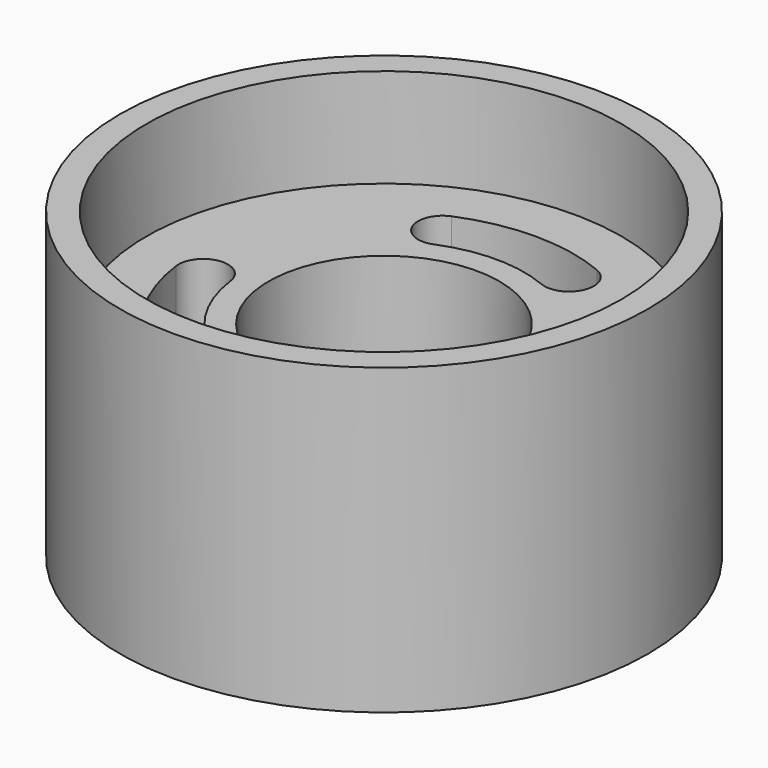
from build123d import *

# Parameters (mm, degrees)
F0_R      = 80
F0_R_2    = 72
F1_DEPTH  = 92
F0_R_3    = 35
F2_DEPTH  = 92
F3_DEPTH  = 30
F4_R      = 72
F4_R_2    = 35
F5_DEPTH  = 30
F6_R      = 72
F6_R_2    = 35
F7_DEPTH  = 25
F8_DEPTH  = 30
F9_R      = 24
F9_R_2    = 20
F10_DEPTH = 25


with BuildPart() as f1:
    # F0 (on Top) → F1 (new body)
    with BuildSketch(Plane.XY):
        Circle(F0_R)
        Circle(F0_R_2, mode=Mode.SUBTRACT)
    extrude(amount=F1_DEPTH)

    # F0 (on Top) → F2 (join)
    with BuildSketch(Plane.XY):
        Circle(F0_R)
        Circle(F0_R_2, mode=Mode.SUBTRACT)
        Circle(F0_R_2)
        with BuildLine():
            ThreePointArc((-25.872361, -33.717517), (-23.711526, -36.350502), (-22.938071, -39.667667))
            ThreePointArc((-22.938071, -39.667667), (-27.120906, -46.394213), (-35.003782, -45.617817))
            ThreePointArc((-35.003782, -45.617817), (-49.796461, -28.75), (-57.00808, -7.505256))
            ThreePointArc((-57.00808, -7.505256), (-50.55119, 0.909527), (-42.136407, -5.547363))
            ThreePointArc((-42.136407, -5.547363), (-36.80608, -21.25), (-25.872361, -33.717517))
        make_face(mode=Mode.SUBTRACT)
        with BuildLine():
            ThreePointArc((42.136407, -5.547363), (50.062767, 0.957632), (57.072243, -6.52631))
            ThreePointArc((57.072243, -6.52631), (57.056185, -7.016833), (57.00808, -7.505256))
            ThreePointArc((57.00808, -7.505256), (49.796461, -28.75), (35.003782, -45.617817))
            ThreePointArc((35.003782, -45.617817), (24.487921, -44.233378), (25.872361, -33.717517))
            ThreePointArc((25.872361, -33.717517), (36.80608, -21.25), (42.136407, -5.547363))
        make_face(mode=Mode.SUBTRACT)
        with BuildLine():
            ThreePointArc((-16.264046, 39.26488), (-26.063268, 43.323851), (-22.004297, 53.123073))
            ThreePointArc((-22.004297, 53.123073), (0, 57.5), (22.004297, 53.123073))
            ThreePointArc((22.004297, 53.123073), (26.063268, 43.323851), (16.264046, 39.26488))
            ThreePointArc((16.264046, 39.26488), (0, 42.5), (-16.264046, 39.26488))
        make_face(mode=Mode.SUBTRACT)
        Circle(F0_R_3, mode=Mode.SUBTRACT)
    extrude(amount=F2_DEPTH)

    # F0 (on Top) → F3 (cut)
    with BuildSketch(Plane.XY):
        Circle(F0_R_2)
        with BuildLine():
            ThreePointArc((-25.872361, -33.717517), (-23.711526, -36.350502), (-22.938071, -39.667667))
            ThreePointArc((-22.938071, -39.667667), (-27.120906, -46.394213), (-35.003782, -45.617817))
            ThreePointArc((-35.003782, -45.617817), (-49.796461, -28.75), (-57.00808, -7.505256))
            ThreePointArc((-57.00808, -7.505256), (-50.55119, 0.909527), (-42.136407, -5.547363))
            ThreePointArc((-42.136407, -5.547363), (-36.80608, -21.25), (-25.872361, -33.717517))
        make_face(mode=Mode.SUBTRACT)
        with BuildLine():
            ThreePointArc((42.136407, -5.547363), (50.062767, 0.957632), (57.072243, -6.52631))
            ThreePointArc((57.072243, -6.52631), (57.056185, -7.016833), (57.00808, -7.505256))
            ThreePointArc((57.00808, -7.505256), (49.796461, -28.75), (35.003782, -45.617817))
            ThreePointArc((35.003782, -45.617817), (24.487921, -44.233378), (25.872361, -33.717517))
            ThreePointArc((25.872361, -33.717517), (36.80608, -21.25), (42.136407, -5.547363))
        make_face(mode=Mode.SUBTRACT)
        with BuildLine():
            ThreePointArc((-16.264046, 39.26488), (-26.063268, 43.323851), (-22.004297, 53.123073))
            ThreePointArc((-22.004297, 53.123073), (0, 57.5), (22.004297, 53.123073))
            ThreePointArc((22.004297, 53.123073), (26.063268, 43.323851), (16.264046, 39.26488))
            ThreePointArc((16.264046, 39.26488), (0, 42.5), (-16.264046, 39.26488))
        make_face(mode=Mode.SUBTRACT)
        Circle(F0_R_3, mode=Mode.SUBTRACT)
    extrude(amount=F3_DEPTH, mode=Mode.SUBTRACT)

    # F4 (on face) → F5 (cut)
    with BuildSketch(Plane.XY):
        Circle(F4_R)
        with BuildLine():
            ThreePointArc((-57.00808, -7.505256), (-50.55119, 0.909527), (-42.136407, -5.547363))
            ThreePointArc((-42.136407, -5.547363), (-36.80608, -21.25), (-25.872361, -33.717517))
            ThreePointArc((-25.872361, -33.717517), (-23.711526, -36.350502), (-22.938071, -39.667667))
            ThreePointArc((-22.938071, -39.667667), (-27.120906, -46.394213), (-35.003782, -45.617817))
            ThreePointArc((-35.003782, -45.617817), (-49.796461, -28.75), (-57.00808, -7.505256))
        make_face(mode=Mode.SUBTRACT)
        with BuildLine():
            ThreePointArc((35.003782, -45.617817), (24.487921, -44.233378), (25.872361, -33.717517))
            ThreePointArc((25.872361, -33.717517), (36.80608, -21.25), (42.136407, -5.547363))
            ThreePointArc((42.136407, -5.547363), (50.062767, 0.957632), (57.072243, -6.52631))
            ThreePointArc((57.072243, -6.52631), (57.056185, -7.016833), (57.00808, -7.505256))
            ThreePointArc((57.00808, -7.505256), (49.796461, -28.75), (35.003782, -45.617817))
        make_face(mode=Mode.SUBTRACT)
        with BuildLine():
            ThreePointArc((22.004297, 53.123073), (26.063268, 43.323851), (16.264046, 39.26488))
            ThreePointArc((16.264046, 39.26488), (0, 42.5), (-16.264046, 39.26488))
            ThreePointArc((-16.264046, 39.26488), (-26.063268, 43.323851), (-22.004297, 53.123073))
            ThreePointArc((-22.004297, 53.123073), (0, 57.5), (22.004297, 53.123073))
        make_face(mode=Mode.SUBTRACT)
        Circle(F4_R_2, mode=Mode.SUBTRACT)
    extrude(amount=F5_DEPTH, mode=Mode.SUBTRACT)

    # F6 (on face) → F7 (cut)
    with BuildSketch(Plane.XY.offset(92)):
        Circle(F6_R)
        with BuildLine():
            ThreePointArc((-57.00808, -7.505256), (-50.55119, 0.909527), (-42.136407, -5.547363))
            ThreePointArc((-42.136407, -5.547363), (-36.80608, -21.25), (-25.872361, -33.717517))
            ThreePointArc((-25.872361, -33.717517), (-23.711526, -36.350502), (-22.938071, -39.667667))
            ThreePointArc((-22.938071, -39.667667), (-27.120906, -46.394213), (-35.003782, -45.617817))
            ThreePointArc((-35.003782, -45.617817), (-49.796461, -28.75), (-57.00808, -7.505256))
        make_face(mode=Mode.SUBTRACT)
        with BuildLine():
            ThreePointArc((35.003782, -45.617817), (24.487921, -44.233378), (25.872361, -33.717517))
            ThreePointArc((25.872361, -33.717517), (36.80608, -21.25), (42.136407, -5.547363))
            ThreePointArc((42.136407, -5.547363), (50.062767, 0.957632), (57.072243, -6.52631))
            ThreePointArc((57.072243, -6.52631), (57.056185, -7.016833), (57.00808, -7.505256))
            ThreePointArc((57.00808, -7.505256), (49.796461, -28.75), (35.003782, -45.617817))
        make_face(mode=Mode.SUBTRACT)
        with BuildLine():
            ThreePointArc((-22.004297, 53.123073), (0, 57.5), (22.004297, 53.123073))
            ThreePointArc((22.004297, 53.123073), (26.063268, 43.323851), (16.264046, 39.26488))
            ThreePointArc((16.264046, 39.26488), (0, 42.5), (-16.264046, 39.26488))
            ThreePointArc((-16.264046, 39.26488), (-26.063268, 43.323851), (-22.004297, 53.123073))
        make_face(mode=Mode.SUBTRACT)
        Circle(F6_R_2, mode=Mode.SUBTRACT)
    extrude(amount=-F7_DEPTH, mode=Mode.SUBTRACT)

    # F6 (on face) → F8 (cut)
    with BuildSketch(Plane.XY.offset(92)):
        Circle(F6_R)
        with BuildLine():
            ThreePointArc((-57.00808, -7.505256), (-50.55119, 0.909527), (-42.136407, -5.547363))
            ThreePointArc((-42.136407, -5.547363), (-36.80608, -21.25), (-25.872361, -33.717517))
            ThreePointArc((-25.872361, -33.717517), (-23.711526, -36.350502), (-22.938071, -39.667667))
            ThreePointArc((-22.938071, -39.667667), (-27.120906, -46.394213), (-35.003782, -45.617817))
            ThreePointArc((-35.003782, -45.617817), (-49.796461, -28.75), (-57.00808, -7.505256))
        make_face(mode=Mode.SUBTRACT)
        with BuildLine():
            ThreePointArc((35.003782, -45.617817), (24.487921, -44.233378), (25.872361, -33.717517))
            ThreePointArc((25.872361, -33.717517), (36.80608, -21.25), (42.136407, -5.547363))
            ThreePointArc((42.136407, -5.547363), (50.062767, 0.957632), (57.072243, -6.52631))
            ThreePointArc((57.072243, -6.52631), (57.056185, -7.016833), (57.00808, -7.505256))
            ThreePointArc((57.00808, -7.505256), (49.796461, -28.75), (35.003782, -45.617817))
        make_face(mode=Mode.SUBTRACT)
        with BuildLine():
            ThreePointArc((-22.004297, 53.123073), (0, 57.5), (22.004297, 53.123073))
            ThreePointArc((22.004297, 53.123073), (26.063268, 43.323851), (16.264046, 39.26488))
            ThreePointArc((16.264046, 39.26488), (0, 42.5), (-16.264046, 39.26488))
            ThreePointArc((-16.264046, 39.26488), (-26.063268, 43.323851), (-22.004297, 53.123073))
        make_face(mode=Mode.SUBTRACT)
        Circle(F6_R_2, mode=Mode.SUBTRACT)
    extrude(amount=-F8_DEPTH, mode=Mode.SUBTRACT)


with BuildPart() as f10:
    # F9 (on face) → F10 (new body)
    with BuildSketch(Plane.XY):
        Circle(F9_R)
        Circle(F9_R_2, mode=Mode.SUBTRACT)
    extrude(amount=F10_DEPTH)


solid = Compound([f1.part, f10.part])
